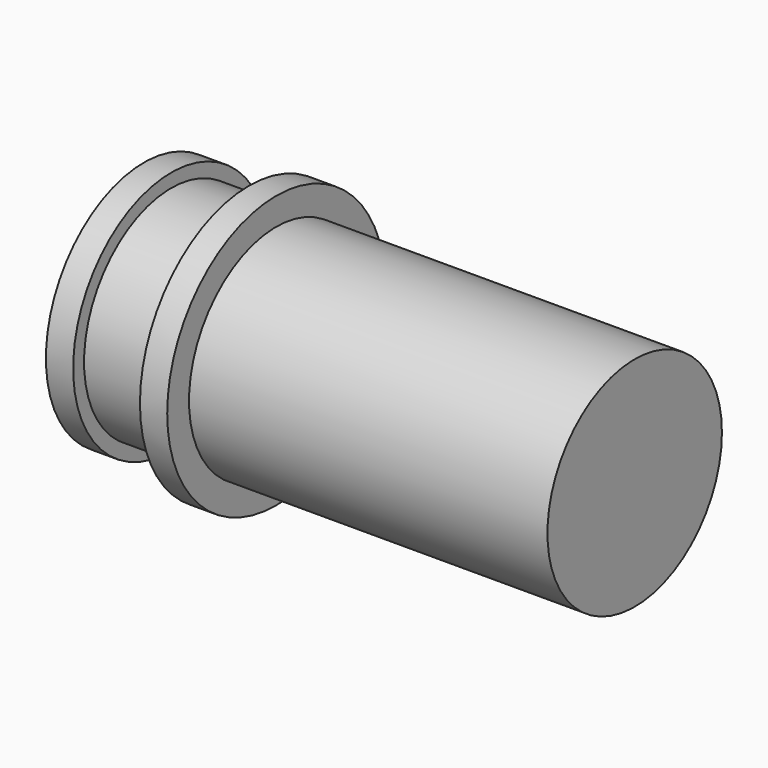
from build123d import *

# Parameters (mm, degrees)
F0_W   = 5.7
F0_H   = 8
F0_W_2 = 2
F0_W_3 = 26.3
F0_H_2 = 2


with BuildPart() as f1:
    # F0 (on Top) → F1 (revolve)
    with BuildSketch(Plane.XY):
        Polygon((-37, 5.2679491924), (-37, 0), (-34, 0), (-34, 8), (-34, 9), (-36, 9), align=None)
        with Locations((-31.15, 4)):
            Rectangle(F0_W, F0_H)
        with Locations((-27.3, 4)):
            Rectangle(F0_W_2, F0_H)
        with Locations((-13.15, 4)):
            Rectangle(F0_W_3, F0_H)
    revolve(axis=Axis((-18.5, 0, 0), (1, 0, 0)))


with BuildPart() as f2:
    # F0 (on Top) → F2 (revolve)
    with BuildSketch(Plane.XY):
        with Locations((-27.3, 9)):
            Rectangle(F0_W_2, F0_H_2)
    revolve(axis=Axis((-18.5, 0, 0), (1, 0, 0)))


solid = Compound([f1.part, f2.part])
